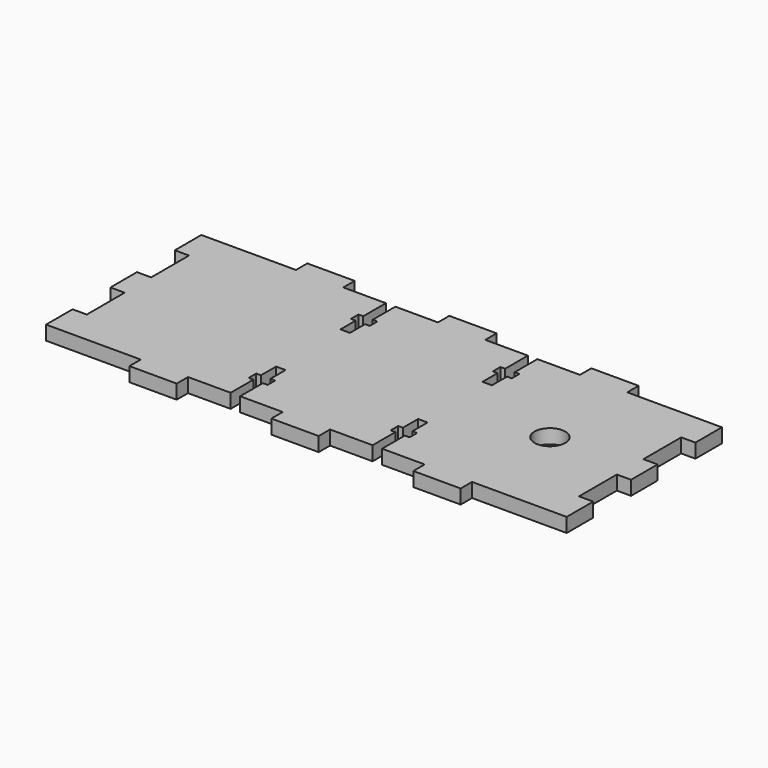
from build123d import *

# Parameters (mm, degrees)
F0_R     = 3.25
F1_DEPTH = 1.5


with BuildPart() as f1:
    # F0 (on Top) → F1 (new body, symmetric)
    with BuildSketch(Plane.XY):
        Polygon((-66.357665, 7), (-66.357665, 0), (-46.357665, 0), (-46.357665, -3), (-36.357665, -3), (-36.357665, 0), (-27.357665, 0), (-27.357665, 6), (-28.357665, 6), (-28.357665, 8), (-27.357665, 8), (-27.357665, 12), (-25.357665, 12), (-25.357665, 8), (-24.357665, 8), (-24.357665, 6), (-25.357665, 6), (-25.357665, 0), (-16.357665, 0), (-16.357665, -3), (-6.357665, -3), (-6.357665, 0), (2.642335, 0), (2.642335, 6), (1.642335, 6), (1.642335, 8), (2.642335, 8), (2.642335, 12), (4.642335, 12), (4.642335, 8), (5.642335, 8), (5.642335, 6), (4.642335, 6), (4.642335, 0), (13.642335, 0), (13.642335, -3), (23.642335, -3), (23.642335, 0), (43.642335, 0), (43.642335, 7), (40.642335, 7), (40.642335, 17), (43.642335, 17), (43.642335, 20.5), (43.642335, 24), (40.642335, 24), (40.642335, 34), (43.642335, 34), (43.642335, 41), (23.642335, 41), (23.642335, 44), (13.642335, 44), (13.642335, 41), (4.642335, 41), (4.642335, 35), (5.642335, 35), (5.642335, 33), (4.642335, 33), (4.642335, 29), (2.642335, 29), (2.642335, 33), (1.642335, 33), (1.642335, 35), (2.642335, 35), (2.642335, 41), (-6.357665, 41), (-6.357665, 44), (-16.357665, 44), (-16.357665, 41), (-25.357665, 41), (-25.357665, 35), (-24.357665, 35), (-24.357665, 33), (-25.357665, 33), (-25.357665, 29), (-27.357665, 29), (-27.357665, 33), (-28.357665, 33), (-28.357665, 35), (-27.357665, 35), (-27.357665, 41), (-36.357665, 41), (-36.357665, 44), (-46.357665, 44), (-46.357665, 41), (-66.357665, 41), (-66.357665, 34), (-63.357665, 34), (-63.357665, 24), (-66.357665, 24), (-66.357665, 20.5), (-66.357665, 17), (-63.357665, 17), (-63.357665, 7), align=None)
        with Locations((23.699796, 20.5)):
            Circle(F0_R, mode=Mode.SUBTRACT)
    extrude(amount=F1_DEPTH, both=True)


solid = f1.part
